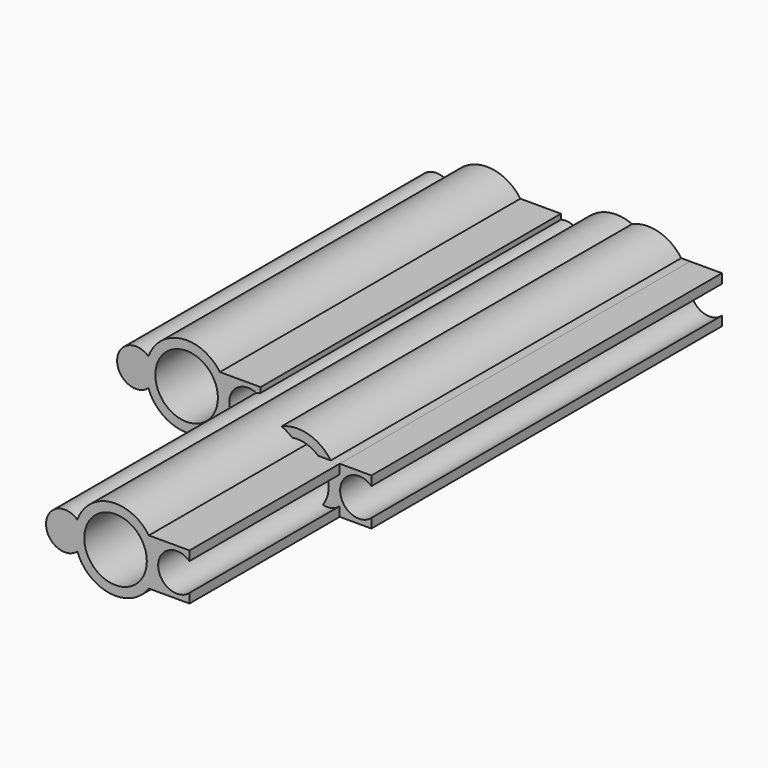
from build123d import *

# Parameters (mm, degrees)
F0_R     = 5
F1_DEPTH = 70
F2_R     = 5
F3_DEPTH = 60
F4_R     = 5
F5_DEPTH = 80
F6_R     = 5
F7_DEPTH = 90
F8_R     = 5
F9_DEPTH = 100


with BuildPart() as f1:
    # F0 (on Front) → F1 (new body)
    with BuildSketch(Plane.XZ):
        with BuildLine():
            ThreePointArc((5.3190032964, -3.7360679775), (6.1977222198, -1.9591424876), (6.5, 0))
            ThreePointArc((6.5, 0), (6.1977222198, 1.9591424876), (5.3190032964, 3.7360679775))
            ThreePointArc((5.3190032964, 3.7360679775), (-0.8463283212, 6.4446666611), (-6.1032778079, 2.2360679775))
            ThreePointArc((-6.1032778079, 2.2360679775), (-6.5, 0), (-6.1032778079, -2.2360679775))
            ThreePointArc((-6.1032778079, -2.2360679775), (-0.8463283212, -6.4446666611), (5.3190032964, -3.7360679775))
        make_face()
        Circle(F0_R, mode=Mode.SUBTRACT)
        with BuildLine():
            ThreePointArc((-6.1032778079, -2.2360679775), (-6.5, 0), (-6.1032778079, 2.2360679775))
            ThreePointArc((-6.1032778079, 2.2360679775), (-11.1032778079, 0), (-6.1032778079, -2.2360679775))
        make_face()
        with BuildLine():
            ThreePointArc((5.3190032964, 3.7360679775), (6.1977222198, 1.9591424876), (6.5, 0))
            ThreePointArc((6.5, 0), (6.1977222198, -1.9591424876), (5.3190032964, -3.7360679775))
            Line((5.3190032964, -3.7360679775), (11.8190032964, -3.7360679775))
            Line((11.8190032964, -3.7360679775), (11.8190032964, -2.2360679775))
            ThreePointArc((11.8190032964, -2.2360679775), (6.8190032964, 0), (11.8190032964, 2.2360679775))
            Line((11.8190032964, 2.2360679775), (11.8190032964, 3.7360679775))
            Line((11.8190032964, 3.7360679775), (5.3190032964, 3.7360679775))
        make_face()
    extrude(amount=F1_DEPTH)


with BuildPart() as f3:
    # F2 (on Front) → F3 (new body)
    with BuildSketch(Plane.XZ):
        with BuildLine():
            ThreePointArc((-31.8158183519, -2.2360679775), (-32.212540544, 0), (-31.8158183519, 2.2360679775))
            ThreePointArc((-31.8158183519, 2.2360679775), (-36.8158183519, 0), (-31.8158183519, -2.2360679775))
        make_face()
        with BuildLine():
            ThreePointArc((-20.3935372476, -3.7360679775), (-19.5148183243, -1.9591424876), (-19.212540544, 0))
            ThreePointArc((-19.212540544, 0), (-19.5148183243, 1.9591424876), (-20.3935372476, 3.7360679775))
            ThreePointArc((-20.3935372476, 3.7360679775), (-26.5588688653, 6.4446666611), (-31.8158183519, 2.2360679775))
            ThreePointArc((-31.8158183519, 2.2360679775), (-32.212540544, 0), (-31.8158183519, -2.2360679775))
            ThreePointArc((-31.8158183519, -2.2360679775), (-26.5588688653, -6.4446666611), (-20.3935372476, -3.7360679775))
        make_face()
        with Locations((-25.712540544, 0)):
            Circle(F2_R, mode=Mode.SUBTRACT)
        with BuildLine():
            ThreePointArc((-20.3935372476, 3.7360679775), (-19.5148183243, 1.9591424876), (-19.212540544, 0))
            ThreePointArc((-19.212540544, 0), (-19.5148183243, -1.9591424876), (-20.3935372476, -3.7360679775))
            Line((-20.3935372476, -3.7360679775), (-13.8935372476, -3.7360679775))
            Line((-13.8935372476, -3.7360679775), (-13.8935372476, -2.2360679775))
            ThreePointArc((-13.8935372476, -2.2360679775), (-18.8935372476, 0), (-13.8935372476, 2.2360679775))
            Line((-13.8935372476, 2.2360679775), (-13.8935372476, 3.7360679775))
            Line((-13.8935372476, 3.7360679775), (-20.3935372476, 3.7360679775))
        make_face()
    extrude(amount=F3_DEPTH)


with BuildPart() as f5:
    # F4 (on Front) → F5 (new body)
    with BuildSketch(Plane.XZ):
        with BuildLine():
            ThreePointArc((-11.171749634, -2.2360679775), (-11.5684718261, 0), (-11.171749634, 2.2360679775))
            ThreePointArc((-11.171749634, 2.2360679775), (-16.171749634, 0), (-11.171749634, -2.2360679775))
        make_face()
        with BuildLine():
            ThreePointArc((0.2505314703, -3.7360679775), (1.1292503937, -1.9591424876), (1.4315281739, 0))
            ThreePointArc((1.4315281739, 0), (1.1292503937, 1.9591424876), (0.2505314703, 3.7360679775))
            ThreePointArc((0.2505314703, 3.7360679775), (-5.9148001473, 6.4446666611), (-11.171749634, 2.2360679775))
            ThreePointArc((-11.171749634, 2.2360679775), (-11.5684718261, 0), (-11.171749634, -2.2360679775))
            ThreePointArc((-11.171749634, -2.2360679775), (-5.9148001473, -6.4446666611), (0.2505314703, -3.7360679775))
        make_face()
        with Locations((-5.0684718261, 0)):
            Circle(F4_R, mode=Mode.SUBTRACT)
        with BuildLine():
            ThreePointArc((0.2505314703, 3.7360679775), (1.1292503937, 1.9591424876), (1.4315281739, 0))
            ThreePointArc((1.4315281739, 0), (1.1292503937, -1.9591424876), (0.2505314703, -3.7360679775))
            Line((0.2505314703, -3.7360679775), (6.7505314703, -3.7360679775))
            Line((6.7505314703, -3.7360679775), (6.7505314703, -2.2360679775))
            ThreePointArc((6.7505314703, -2.2360679775), (1.7505314703, 0), (6.7505314703, 2.2360679775))
            Line((6.7505314703, 2.2360679775), (6.7505314703, 3.7360679775))
            Line((6.7505314703, 3.7360679775), (0.2505314703, 3.7360679775))
        make_face()
    extrude(amount=F5_DEPTH)


with BuildPart() as f7:
    # F6 (on Front) → F7 (new body)
    with BuildSketch(Plane.XZ):
        with BuildLine():
            ThreePointArc((-11.171749634, -2.2360679775), (-11.5684718261, 0), (-11.171749634, 2.2360679775))
            ThreePointArc((-11.171749634, 2.2360679775), (-16.171749634, 0), (-11.171749634, -2.2360679775))
        make_face()
        with BuildLine():
            ThreePointArc((0.2505314703, -3.7360679775), (1.1292503937, -1.9591424876), (1.4315281739, 0))
            ThreePointArc((1.4315281739, 0), (1.1292503937, 1.9591424876), (0.2505314703, 3.7360679775))
            ThreePointArc((0.2505314703, 3.7360679775), (-5.9148001473, 6.4446666611), (-11.171749634, 2.2360679775))
            ThreePointArc((-11.171749634, 2.2360679775), (-11.5684718261, 0), (-11.171749634, -2.2360679775))
            ThreePointArc((-11.171749634, -2.2360679775), (-5.9148001473, -6.4446666611), (0.2505314703, -3.7360679775))
        make_face()
        with Locations((-5.0684718261, 0)):
            Circle(F6_R, mode=Mode.SUBTRACT)
        with BuildLine():
            ThreePointArc((0.2505314703, 3.7360679775), (1.1292503937, 1.9591424876), (1.4315281739, 0))
            ThreePointArc((1.4315281739, 0), (1.1292503937, -1.9591424876), (0.2505314703, -3.7360679775))
            Line((0.2505314703, -3.7360679775), (6.7505314703, -3.7360679775))
            Line((6.7505314703, -3.7360679775), (6.7505314703, -2.2360679775))
            ThreePointArc((6.7505314703, -2.2360679775), (1.7505314703, 0), (6.7505314703, 2.2360679775))
            Line((6.7505314703, 2.2360679775), (6.7505314703, 3.7360679775))
            Line((6.7505314703, 3.7360679775), (0.2505314703, 3.7360679775))
        make_face()
    extrude(amount=F7_DEPTH)


with BuildPart() as f9:
    # F8 (on Front) → F9 (new body)
    with BuildSketch(Plane.XZ):
        with BuildLine():
            ThreePointArc((-11.171749634, -2.2360679775), (-11.5684718261, 0), (-11.171749634, 2.2360679775))
            ThreePointArc((-11.171749634, 2.2360679775), (-16.171749634, 0), (-11.171749634, -2.2360679775))
        make_face()
        with BuildLine():
            ThreePointArc((0.2505314703, -3.7360679775), (1.1292503937, -1.9591424876), (1.4315281739, 0))
            ThreePointArc((1.4315281739, 0), (1.1292503937, 1.9591424876), (0.2505314703, 3.7360679775))
            ThreePointArc((0.2505314703, 3.7360679775), (-5.9148001473, 6.4446666611), (-11.171749634, 2.2360679775))
            ThreePointArc((-11.171749634, 2.2360679775), (-11.5684718261, 0), (-11.171749634, -2.2360679775))
            ThreePointArc((-11.171749634, -2.2360679775), (-5.9148001473, -6.4446666611), (0.2505314703, -3.7360679775))
        make_face()
        with Locations((-5.0684718261, 0)):
            Circle(F8_R, mode=Mode.SUBTRACT)
        with BuildLine():
            ThreePointArc((0.2505314703, 3.7360679775), (1.1292503937, 1.9591424876), (1.4315281739, 0))
            ThreePointArc((1.4315281739, 0), (1.1292503937, -1.9591424876), (0.2505314703, -3.7360679775))
            Line((0.2505314703, -3.7360679775), (6.7505314703, -3.7360679775))
            Line((6.7505314703, -3.7360679775), (6.7505314703, -2.2360679775))
            ThreePointArc((6.7505314703, -2.2360679775), (1.7505314703, 0), (6.7505314703, 2.2360679775))
            Line((6.7505314703, 2.2360679775), (6.7505314703, 3.7360679775))
            Line((6.7505314703, 3.7360679775), (0.2505314703, 3.7360679775))
        make_face()
    extrude(amount=F9_DEPTH)


solid = Compound([f1.part, f3.part, f5.part, f7.part, f9.part])
